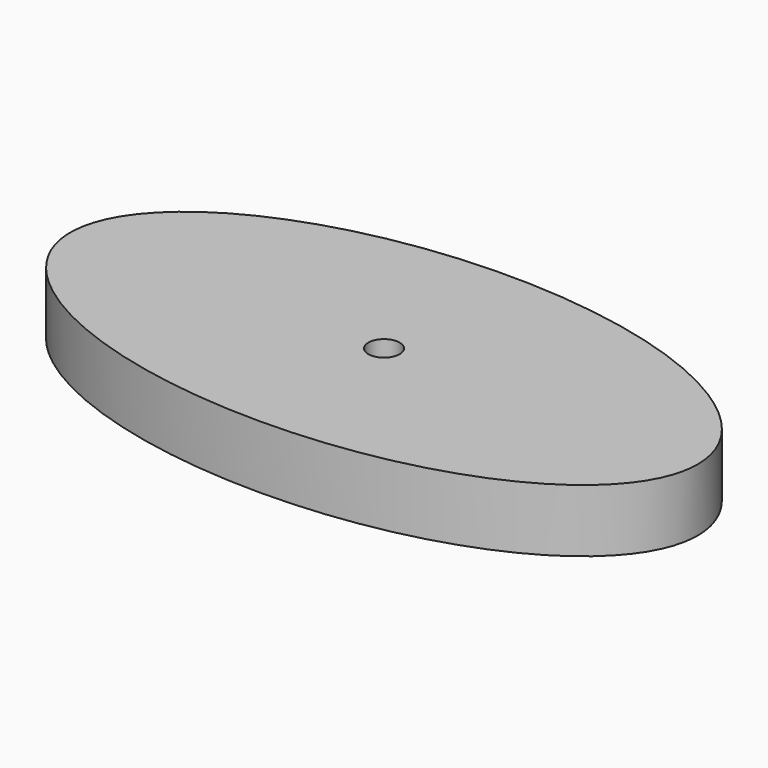
from build123d import *

# Parameters (mm, degrees)
F1_DEPTH = 4
F2_R     = 1
F3_DEPTH = 25


with BuildPart() as f1:
    # F0 (on Top) → F1 (new body)
    with BuildSketch(Plane.XY):
        with BuildLine():
            add(Edge.make_bspline(
                [(20, 0), (20, 17.320508), (-10, 8.660254), (-40, 0), (-10, -8.660254), (20, -17.320508), (20, 0)],
                knots=[0, 0, 0, 2.094395, 2.094395, 4.18879, 4.18879, 6.283185, 6.283185, 6.283185], degree=2, weights=[1, 0.5, 1, 0.5, 1, 0.5, 1]))
        make_face()
    extrude(amount=F1_DEPTH)

    # F2 (on face) → F3 (cut)
    with BuildSketch(Plane.XY.offset(4)):
        Circle(F2_R)
    extrude(amount=-F3_DEPTH, mode=Mode.SUBTRACT)


solid = f1.part
